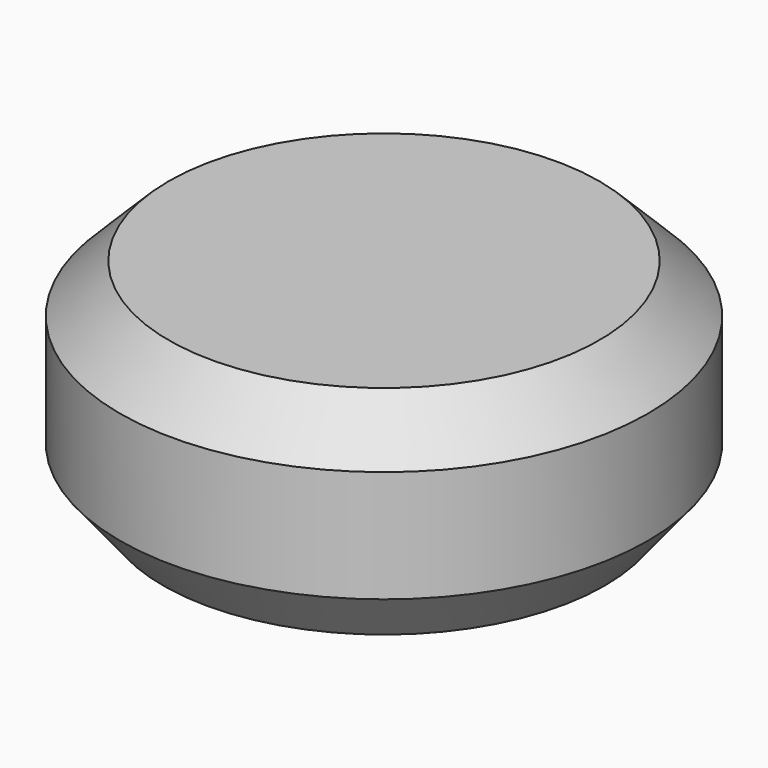
from build123d import *

# Parameters (mm, degrees)
F2_R = 65.54002


with BuildPart() as f1:
    # F0 (on Front) → F1 (revolve)
    with BuildSketch(Plane.XZ):
        with BuildLine():
            Line((0, 12.436863), (-6.501726, 12.436863))
            Line((-6.501726, 12.436863), (-12.5, 12.436863))
            Line((-12.5, 12.436863), (-15.332151, 9.612165))
            Line((-15.332151, 9.612165), (-15.332151, 3.112165))
            Line((-15.332151, 3.112165), (-12.819298, 0))
            Line((-12.819298, 0), (-8.319298, 0))
            ThreePointArc((-8.319298, 0), (-4.165996, 0.344719), (0, 0.459742))
            Line((0, 0.459742), (0, 12.436863))
        make_face()
    revolve(axis=Axis((0, 0, 6.448302), (0, 0, 1)))

    # F2
    f2_edges = [f1.edges().sort_by_distance(p)[0] for p in [
        (8.319298, 0, 0),
    ]]
    fillet(f2_edges, radius=F2_R)


solid = f1.part
